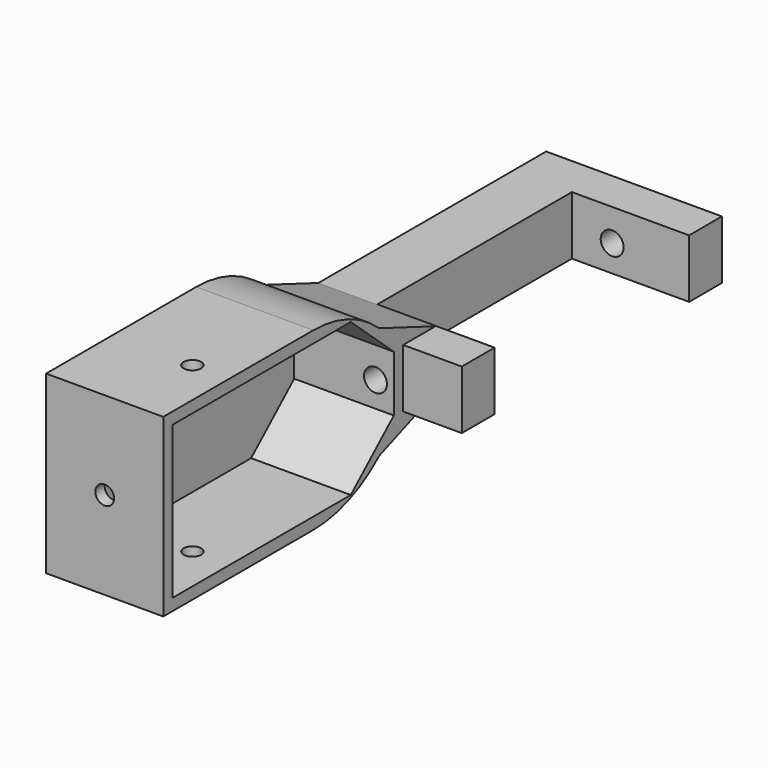
from build123d import *

# Parameters (mm, degrees)
PAD_DEPTH       = 10
PAD001_DEPTH    = 20
SKETCH002_R     = 1.6
POCKET_DEPTH    = 17
POCKET001_DEPTH = 17
SKETCH004_R     = 1.956014
POCKET002_DEPTH = 57.501
SKETCH005_R     = 1.5
POCKET003_DEPTH = 30.001
CHAMFER_SIZE    = 6.9
CHAMFER001_SIZE = 6.9
FILLET_R        = 20.9
FILLET001_R     = 20.9


with BuildPart() as part:
    # Sketch → Pad (new body)
    with BuildSketch(Plane.XY):
        Polygon((30, 55.5), (30, 48.5), (10, 48.5), (10, 7), (30, 7), (30, 0), (0, 0), (0, 55.5), align=None)
    extrude(amount=PAD_DEPTH)

    # Sketch001 → Pad001 (new body)
    with BuildSketch(Plane(origin=(0, 0, 0), x_dir=(0, -1, 0), z_dir=(-1, 0, 0))):
        Polygon((0, 10), (0, 0), (11.18034, -10), (51.18034, -10), (51.18034, 20), (11.18034, 20), align=None)
    extrude(amount=-PAD001_DEPTH)

    # Sketch002 → Pocket (cut)
    with BuildSketch(Plane.XZ.offset(51.18034)):
        with Locations((10, 5)):
            Circle(SKETCH002_R)
    extrude(amount=-POCKET_DEPTH, mode=Mode.SUBTRACT)

    # Sketch003 → Pocket001 (cut)
    with BuildSketch(Plane.YZ.offset(20)):
        Polygon((-49.18034, 18), (-49.18034, -8), (-11.180357, -8), (-2, 0.211161), (-2, 9.788839), (-11.180357, 18), align=None)
    extrude(amount=-POCKET001_DEPTH, mode=Mode.SUBTRACT)

    # Sketch004 → Pocket002 (cut, through all)
    with BuildSketch(Plane.XZ.offset(2)):
        with Locations((16.870201, 4.538767)):
            Circle(SKETCH004_R)
    extrude(amount=-POCKET002_DEPTH, mode=Mode.SUBTRACT)

    # Sketch005 → Pocket003 (cut, through all)
    with BuildSketch(Plane(origin=(0, 0, -10), x_dir=(1, 0, 0), z_dir=(0, 0, -1))):
        with Locations((13.718381, 37.10752)):
            Circle(SKETCH005_R)
    extrude(amount=-POCKET003_DEPTH, mode=Mode.SUBTRACT)

    # Chamfer
    chamfer_edges = [part.edges().sort_by_distance(p)[0] for p in [
        (10, 0, 0),
    ]]
    chamfer(chamfer_edges, length=CHAMFER_SIZE)

    # Chamfer001
    chamfer001_edges = [part.edges().sort_by_distance(p)[0] for p in [
        (10, 0, 10),
    ]]
    chamfer(chamfer001_edges, length=CHAMFER001_SIZE)

    # Fillet
    fillet_edges = [part.edges().sort_by_distance(p)[0] for p in [
        (10, -11.18034, -10),
    ]]
    fillet(fillet_edges, radius=FILLET_R)

    # Fillet001
    fillet001_edges = [part.edges().sort_by_distance(p)[0] for p in [
        (10, -11.18034, 20),
    ]]
    fillet(fillet001_edges, radius=FILLET001_R)


solid = part.part
